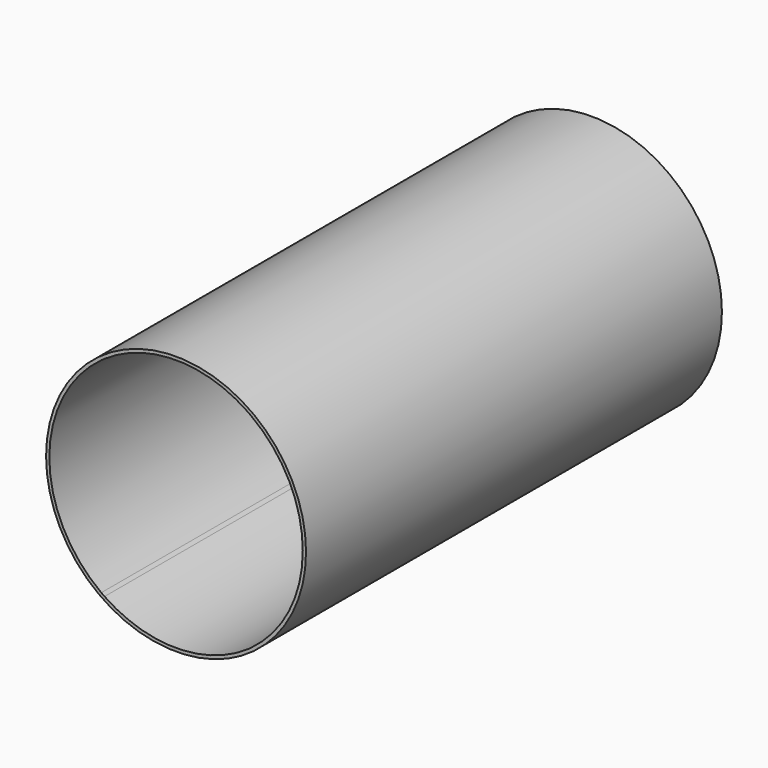
from build123d import *

# Parameters (mm, degrees)
F0_R     = 508
F1_DEPTH = 2032
F0_R_2   = 50.8
F2_DEPTH = 12.7
F3_DEPTH = 25.4


with BuildPart() as f1:
    # F0 (on Front) → F1 (new body)
    with BuildSketch(Plane.XZ):
        Circle(F0_R)
        with BuildLine():
            ThreePointArc((292.1, 399.9995999998), (441.5876017281, 224.3267260047), (495.3, 0))
            ThreePointArc((495.3, 0), (441.5876017281, -224.3267260047), (292.1, -399.9995999998))
            ThreePointArc((292.1, -399.9995999998), (285.785210392, -404.5354168935), (279.4, -408.9715515779))
            ThreePointArc((279.4, -408.9715515779), (0, -495.3), (-279.4, -408.9715515779))
            ThreePointArc((-279.4, -408.9715515779), (-285.785210392, -404.5354168935), (-292.1, -399.9995999998))
            ThreePointArc((-292.1, -399.9995999998), (-495.3, 0), (-292.1, 399.9995999998))
            ThreePointArc((-292.1, 399.9995999998), (-285.785210392, 404.5354168935), (-279.4, 408.9715515779))
            ThreePointArc((-279.4, 408.9715515779), (0, 495.3), (279.4, 408.9715515779))
            ThreePointArc((279.4, 408.9715515779), (285.785210392, 404.5354168935), (292.1, 399.9995999998))
        make_face(mode=Mode.SUBTRACT)
    extrude(amount=F1_DEPTH)

    # F0 (on Front) → F3 (cut)
    with BuildSketch(Plane.XZ):
        Circle(F0_R_2)
    extrude(amount=F3_DEPTH, mode=Mode.SUBTRACT)


with BuildPart() as f2:
    # F0 (on Front) → F2 (new body)
    with BuildSketch(Plane.XZ):
        with BuildLine():
            Line((279.4, -408.9715515779), (279.4, 408.9715515779))
            ThreePointArc((279.4, 408.9715515779), (0, 495.3), (-279.4, 408.9715515779))
            Line((-279.4, 408.9715515779), (-279.4, -408.9715515779))
            ThreePointArc((-279.4, -408.9715515779), (0, -495.3), (279.4, -408.9715515779))
        make_face()
        Circle(F0_R_2, mode=Mode.SUBTRACT)
    extrude(amount=F2_DEPTH)


solid = Compound([f1.part, f2.part])
